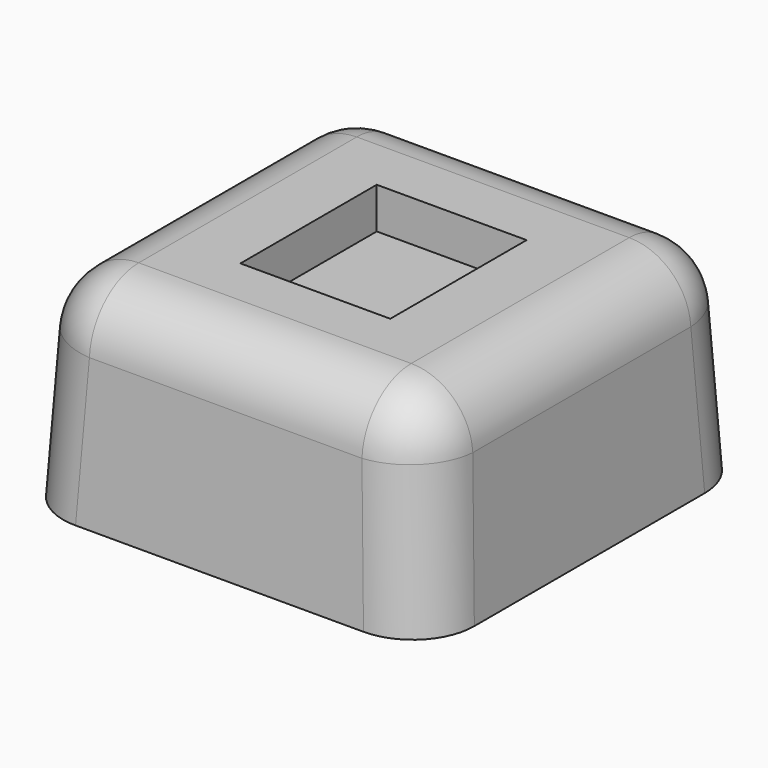
from build123d import *

# Parameters (mm, degrees)
F0_W     = 20
F0_H     = 20
F1_DEPTH = 10
F1_TAPER = 3
F2_R     = 3
F3_W     = 7.29034096
F3_H     = 8.2890868653
F4_DEPTH = 2


with BuildPart() as f1:
    # F0 (on Top) → F1 (new body)
    with BuildSketch(Plane.XY):
        with Locations((0, -0.8712120694)):
            Rectangle(F0_W, F0_H)
    extrude(amount=F1_DEPTH, taper=F1_TAPER)

    # F2
    f2_edges = [f1.edges().sort_by_distance(p)[0] for p in [
        (0, 8.60471, 10),
        (-9.737961, 8.866749, 5),
        (-9.475922, -0.871212, 10),
        (-9.737961, -10.609173, 5),
        (0, -10.347134, 10),
        (9.475922, -0.871212, 10),
        (9.737961, 8.866749, 5),
        (9.737961, -10.609173, 5),
    ]]
    fillet(f2_edges, radius=F2_R)

    # F3 (on face) → F4 (cut)
    with BuildSketch(Plane.XY.offset(10)):
        with Locations((0.0642689411, -0.9792846395)):
            Rectangle(F3_W, F3_H)
    extrude(amount=-F4_DEPTH, mode=Mode.SUBTRACT)


solid = f1.part
